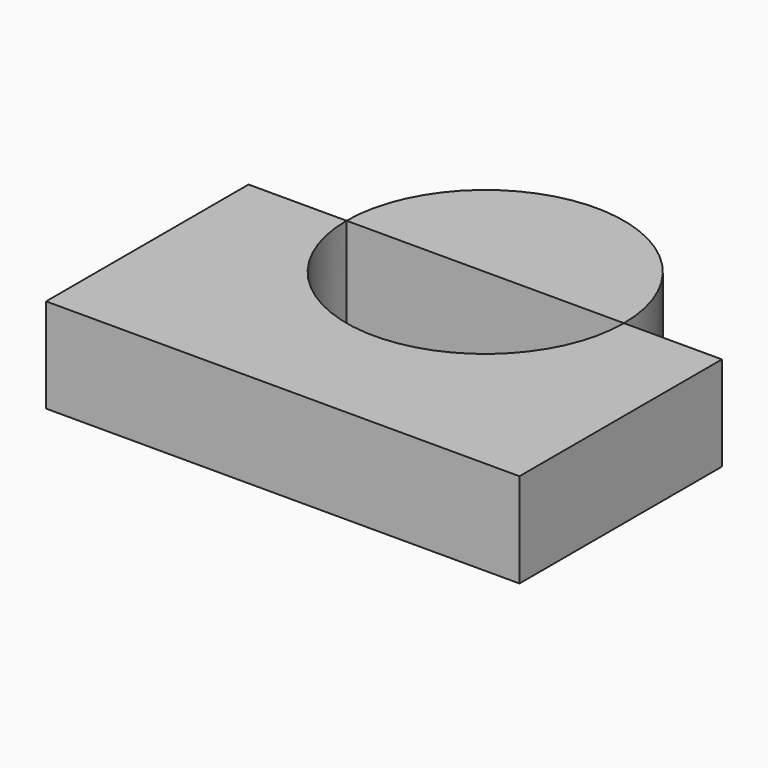
from build123d import *

# Parameters (mm, degrees)
F1_DEPTH = 25.399999693


with BuildPart() as f1:
    # F0 (on Top) → F1 (new body)
    with BuildSketch(Plane.XY):
        with BuildLine():
            Line((67.2259032726, 23.3869552612), (40.8709071856, 23.3869552612))
            ThreePointArc((40.8709071856, 23.3869552612), (3.5670921206, -13.9168598037), (-33.7367229443, 23.3869552612))
            Line((-33.7367229443, 23.3869552612), (-60.0917190313, 23.3869552612))
            Line((-60.0917190313, 23.3869552612), (-60.0917190313, -44.6759015322))
            Line((-60.0917190313, -44.6759015322), (67.2259032726, -44.6759015322))
            Line((67.2259032726, -44.6759015322), (67.2259032726, 23.3869552612))
        make_face()
    extrude(amount=-F1_DEPTH)


with BuildPart() as f1b:
    # F0 (on Top) → F1, piece 2 (new body)
    with BuildSketch(Plane.XY):
        with BuildLine():
            Line((-33.7367229443, 23.3869552612), (40.8709071856, 23.3869552612))
            ThreePointArc((40.8709071856, 23.3869552612), (3.5670921206, 60.6907703262), (-33.7367229443, 23.3869552612))
        make_face()
    extrude(amount=-F1_DEPTH)


solid = Compound([f1.part, f1b.part])
